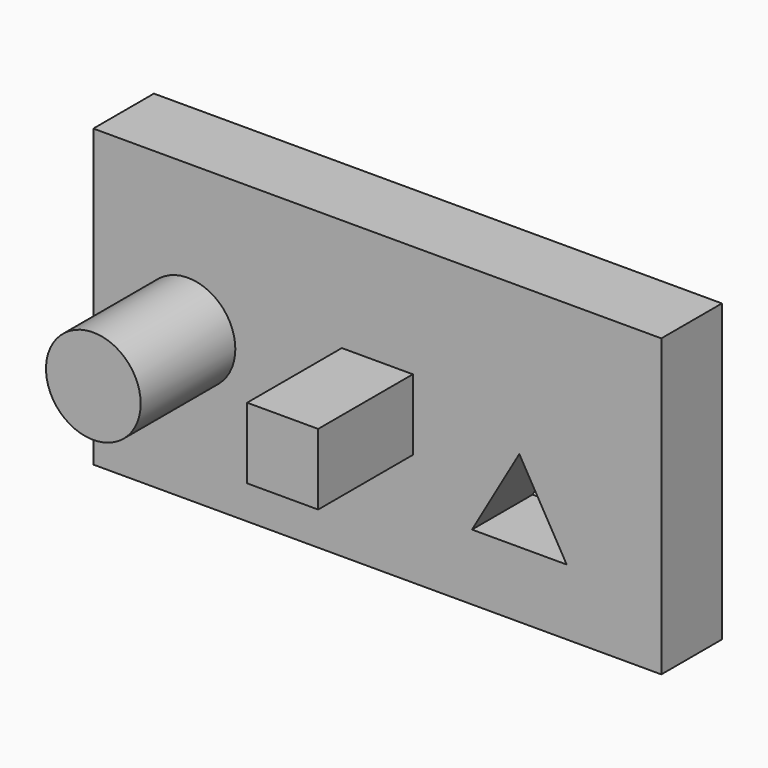
from build123d import *

# Parameters (mm, degrees)
F0_R     = 12.7
F0_W     = 19.05
F0_H     = 19.05
F1_DEPTH = 20.32
F2_DEPTH = 52.07
F3_DEPTH = 52.07
F4_DEPTH = 20.32


with BuildPart() as f1:
    # F0 (on Front) → F1 (new body)
    with BuildSketch(Plane.XZ):
        Polygon((44.45, -39.6875), (44.45, 0), (44.45, 39.6875), (-107.95, 39.6875), (-107.95, -39.6875), align=None)
        Polygon((-6.35, -21.997045), (6.35, 0), (19.05, -21.997045), align=None, mode=Mode.SUBTRACT)
        with Locations((-82.55, 0)):
            Circle(F0_R, mode=Mode.SUBTRACT)
        with Locations((-31.75, 0)):
            Rectangle(F0_W, F0_H, mode=Mode.SUBTRACT)
    extrude(amount=F1_DEPTH)

    # F0 (on Front) → F2 (join)
    with BuildSketch(Plane.XZ):
        with Locations((-82.55, 0)):
            Circle(F0_R)
    extrude(amount=F2_DEPTH)

    # F0 (on Front) → F3 (join)
    with BuildSketch(Plane.XZ):
        with Locations((-31.75, 0)):
            Rectangle(F0_W, F0_H)
    extrude(amount=F3_DEPTH)

    # F0 (on Front) → F4 (cut)
    with BuildSketch(Plane.XZ):
        with Locations((-31.75, 0)):
            Rectangle(F0_W, F0_H)
    extrude(amount=F4_DEPTH, mode=Mode.SUBTRACT)


solid = f1.part
